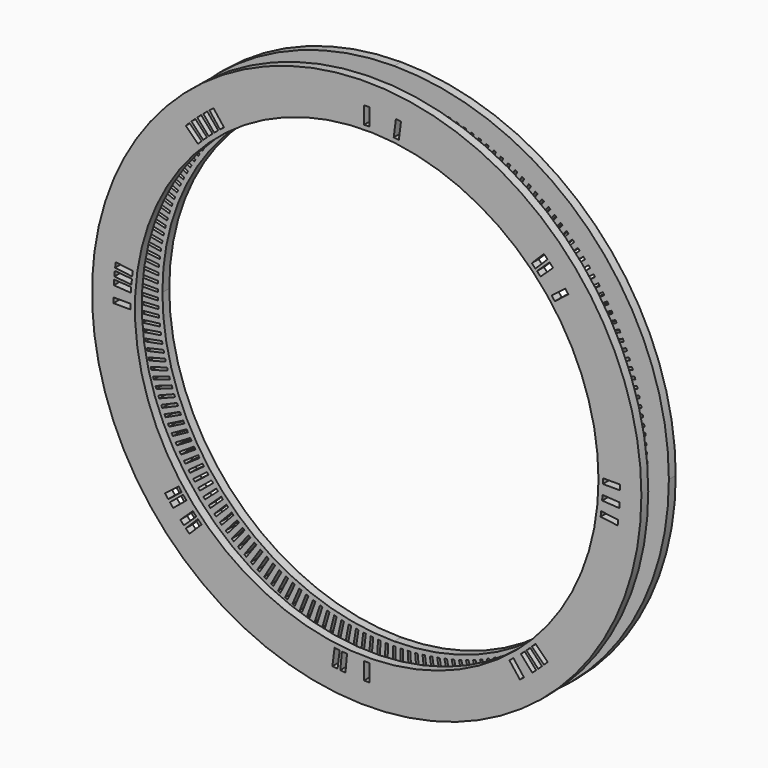
from build123d import *

# Parameters (mm, degrees)
F1_DEPTH = 1
F2_R     = 33.5
F2_R_2   = 26
F2_W     = 2
F2_H     = 0.3
F2_W_2   = 0.3
F2_H_2   = 2
F4_DEPTH = 25
F5_COUNT = 4
F5_ANGLE = 270
F7_R     = 32
F7_W     = 0.6
F7_H     = 2
F7_W_2   = 2
F7_H_2   = 0.6
F7_R_2   = 27
F8_DEPTH = 1


with BuildPart() as f1:
    # F0 (on Front) → F1 (new body)
    with BuildSketch(Plane.XZ):
        with BuildLine():
            Line((27, 0), (32, 0))
            ThreePointArc((32, 0), (22.627416998, 22.627416998), (0, 32))
            Line((0, 32), (0, 27))
            ThreePointArc((0, 27), (19.091883092, 19.091883092), (27, 0))
        make_face()
    extrude(amount=F1_DEPTH)

    # F2 (on Front) → F4 (intersect)
    with BuildSketch(Plane.XZ):
        Circle(F2_R)
        Circle(F2_R_2, mode=Mode.SUBTRACT)
        with Locations((28.5, 0)):
            Rectangle(F2_W, F2_H, mode=Mode.SUBTRACT)
        Polygon((27.4817187962, 1.0137218587), (29.4807319169, 1.0765433769), (29.4901551447, 0.7766914087), (27.4911420239, 0.7138698906), align=None, mode=Mode.SUBTRACT)
        Polygon((27.4363164538, 1.8764432963), (29.4323699107, 2.0020243354), (29.4512070666, 1.7026163169), (27.4551536097, 1.5770352778), align=None, mode=Mode.SUBTRACT)
        Polygon((27.3638377796, 2.7373129109), (29.3549617088, 2.9255295376), (29.3831942028, 2.6268609482), (27.3920702736, 2.4386443216), align=None, mode=Mode.SUBTRACT)
        Polygon((27.2643543011, 3.5954811282), (29.2485837037, 3.8461475953), (29.2861836738, 3.5485131849), (27.3019542712, 3.2978467178), align=None, mode=Mode.SUBTRACT)
        Polygon((27.1379641966, 4.4501010397), (29.1133408778, 4.7629699698), (29.1602712173, 4.4666634676), (27.1848945361, 4.1537945375), align=None, mode=Mode.SUBTRACT)
        Polygon((26.9847921979, 5.3003292387), (28.9493666993, 5.6750918679), (29.0055810937, 5.3804056927), (27.0410065922, 5.0056430635), align=None, mode=Mode.SUBTRACT)
        Polygon((26.8049894671, 6.1453266527), (28.756822991, 6.5816131355), (28.8222659634, 6.2888381069), (26.8704324395, 5.8525516241), align=None, mode=Mode.SUBTRACT)
        Polygon((26.598733448, 6.9842593712), (28.5358997702, 7.4816391455), (28.6105067364, 7.1910641972), (26.6733404141, 6.6936844229), align=None, mode=Mode.SUBTRACT)
        Polygon((26.3662276902, 7.8162994689), (28.2868150616, 8.374281681), (28.3705123934, 8.0861935753), (26.449925022, 7.5282113632), align=None, mode=Mode.SUBTRACT)
        Polygon((24.0261706501, 13.3796720398), (25.7787840102, 14.343179388), (25.9233101124, 14.080287384), (24.1706967523, 13.1167800358), align=None, mode=Mode.SUBTRACT)
        Polygon((23.5940495302, 14.1277502372), (25.3155335843, 15.1458330687), (25.468246009, 14.8876104606), (23.746761955, 13.8695276291), align=None, mode=Mode.SUBTRACT)
        Polygon((23.1386439321, 14.8618860507), (24.8272997831, 15.9335396407), (24.9880478216, 15.6802412631), (23.2993919706, 14.6085876731), align=None, mode=Mode.SUBTRACT)
        Polygon((22.6604032859, 15.5813549771), (24.3145644344, 16.7055217328), (24.4831894478, 16.4573975605), (22.8290282992, 15.3332308048), align=None, mode=Mode.SUBTRACT)
        Polygon((26.107701649, 8.6406258228), (28.0098146816, 9.2586598115), (28.1025197799, 8.9733428566), (26.2004067473, 8.3553088679), align=None, mode=Mode.SUBTRACT)
        Polygon((25.8234104582, 9.4564249221), (27.7051719961, 10.1339007626), (27.8067933722, 9.8516365319), (25.9250318343, 9.1741606914), align=None, mode=Mode.SUBTRACT)
        Polygon((25.1786800227, 11.0592301863), (27.0141892741, 11.8535259676), (27.1333336413, 11.5781995799), (25.2978243899, 10.7839037986), align=None, mode=Mode.SUBTRACT)
        Polygon((25.513634679, 10.2628916717), (27.3731876508, 10.9991407771), (27.4836250166, 10.7202078313), (25.6240720448, 9.9839587259), align=None, mode=Mode.SUBTRACT)
        Polygon((24.8188770491, 11.8446545759), (26.628531154, 12.696213159), (26.7562649415, 12.4247650433), (24.9466108366, 11.5732064602), align=None, mode=Mode.SUBTRACT)
        Polygon((24.4345808402, 12.6183897215), (26.2165938886, 13.5263707209), (26.3527910385, 13.2590687637), (24.5707779901, 12.3510877642), align=None, mode=Mode.SUBTRACT)
        Polygon((13.8695276291, 23.746761955), (14.8876104606, 25.468246009), (15.1458330687, 25.3155335843), (14.1277502372, 23.5940495302), align=None, mode=Mode.SUBTRACT)
        Polygon((13.1167800358, 24.1706967523), (14.080287384, 25.9233101124), (14.343179388, 25.7787840102), (13.3796720398, 24.0261706501), align=None, mode=Mode.SUBTRACT)
        Polygon((14.6085876731, 23.2993919706), (15.6802412631, 24.9880478216), (15.9335396407, 24.8272997831), (14.8618860507, 23.1386439321), align=None, mode=Mode.SUBTRACT)
        Polygon((15.3332308048, 22.8290282992), (16.4573975605, 24.4831894478), (16.7055217328, 24.3145644344), (15.5813549771, 22.6604032859), align=None, mode=Mode.SUBTRACT)
        with Locations((0, 28.5)):
            Rectangle(F2_W_2, F2_H_2, mode=Mode.SUBTRACT)
        Polygon((0.7766914087, 29.4901551447), (1.0765433769, 29.4807319169), (1.0137218587, 27.4817187962), (0.7138698906, 27.4911420239), align=None, mode=Mode.SUBTRACT)
        Polygon((1.5770352778, 27.4551536097), (1.7026163169, 29.4512070666), (2.0020243354, 29.4323699107), (1.8764432963, 27.4363164538), align=None, mode=Mode.SUBTRACT)
        Polygon((2.4386443216, 27.3920702736), (2.6268609482, 29.3831942028), (2.9255295376, 29.3549617088), (2.7373129109, 27.3638377796), align=None, mode=Mode.SUBTRACT)
        Polygon((3.2978467178, 27.3019542712), (3.5485131849, 29.2861836738), (3.8461475953, 29.2485837037), (3.5954811282, 27.2643543011), align=None, mode=Mode.SUBTRACT)
        Polygon((4.1537945375, 27.1848945361), (4.4666634676, 29.1602712173), (4.7629699698, 29.1133408778), (4.4501010397, 27.1379641966), align=None, mode=Mode.SUBTRACT)
        Polygon((5.0056430635, 27.0410065922), (5.3804056927, 29.0055810937), (5.6750918679, 28.9493666993), (5.3003292387, 26.9847921979), align=None, mode=Mode.SUBTRACT)
        Polygon((5.8525516241, 26.8704324395), (6.2888381069, 28.8222659634), (6.5816131355, 28.756822991), (6.1453266527, 26.8049894671), align=None, mode=Mode.SUBTRACT)
        Polygon((6.6936844229, 26.6733404141), (7.1910641972, 28.6105067364), (7.4816391455, 28.5358997702), (6.9842593712, 26.598733448), align=None, mode=Mode.SUBTRACT)
        Polygon((7.5282113632, 26.449925022), (8.0861935753, 28.3705123934), (8.374281681, 28.2868150616), (7.8162994689, 26.3662276902), align=None, mode=Mode.SUBTRACT)
        Polygon((8.3553088679, 26.2004067473), (8.9733428566, 28.1025197799), (9.2586598115, 28.0098146816), (8.6406258228, 26.107701649), align=None, mode=Mode.SUBTRACT)
        Polygon((9.1741606914, 25.9250318343), (9.8516365319, 27.8067933722), (10.1339007626, 27.7051719961), (9.4564249221, 25.8234104582), align=None, mode=Mode.SUBTRACT)
        Polygon((10.7839037986, 25.2978243899), (11.5781995799, 27.1333336413), (11.8535259676, 27.0141892741), (11.0592301863, 25.1786800227), align=None, mode=Mode.SUBTRACT)
        Polygon((11.5732064602, 24.9466108366), (12.4247650433, 26.7562649415), (12.696213159, 26.628531154), (11.8446545759, 24.8188770491), align=None, mode=Mode.SUBTRACT)
        Polygon((9.9839587259, 25.6240720448), (10.7202078313, 27.4836250166), (10.9991407771, 27.3731876508), (10.2628916717, 25.513634679), align=None, mode=Mode.SUBTRACT)
        Polygon((12.3510877642, 24.5707779901), (13.2590687637, 26.3527910385), (13.5263707209, 26.2165938886), (12.6183897215, 24.4345808402), align=None, mode=Mode.SUBTRACT)
        Polygon((19.9439551882, 18.9343907072), (21.401892443, 20.303484919), (21.6072565748, 20.0847943308), (20.14931932, 18.7157001189), align=None, mode=Mode.SUBTRACT)
        Polygon((18.7157001189, 20.14931932), (20.0847943308, 21.6072565748), (20.303484919, 21.401892443), (18.9343907072, 19.9439551882), align=None, mode=Mode.SUBTRACT)
        Polygon((19.3393704655, 19.5515024998), (20.7535840278, 20.9657160622), (20.9657160622, 20.7535840278), (19.5515024998, 19.3393704655), align=None, mode=Mode.SUBTRACT)
        Polygon((21.6373267823, 16.9734672273), (23.217636807, 18.1992813346), (23.4015089231, 17.9622348309), (21.8211988984, 16.7364207236), align=None, mode=Mode.SUBTRACT)
        Polygon((21.0935005779, 17.6447367045), (22.6345270634, 18.919584684), (22.8257542603, 18.6884307112), (21.2847277748, 17.4135827317), align=None, mode=Mode.SUBTRACT)
        Polygon((22.1597995575, 16.2854469872), (23.7778335462, 17.4610174918), (23.9541691219, 17.2183123935), (22.3361351332, 16.0427418889), align=None, mode=Mode.SUBTRACT)
        Polygon((20.528857635, 18.2985929568), (22.0290797743, 19.6212166875), (22.2274733339, 19.3961833666), (20.7272511946, 18.073559636), align=None, mode=Mode.SUBTRACT)
        Polygon((17.4135827317, 21.2847277748), (18.6884307112, 22.8257542603), (18.919584684, 22.6345270634), (17.6447367045, 21.0935005779), align=None, mode=Mode.SUBTRACT)
        Polygon((16.7364207236, 21.8211988984), (17.9622348309, 23.4015089231), (18.1992813346, 23.217636807), (16.9734672273, 21.6373267823), align=None, mode=Mode.SUBTRACT)
        Polygon((18.073559636, 20.7272511946), (19.3961833666, 22.2274733339), (19.6212166875, 22.0290797743), (18.2985929568, 20.528857635), align=None, mode=Mode.SUBTRACT)
        Polygon((16.0427418889, 22.3361351332), (17.2183123935, 23.9541691219), (17.4610174918, 23.7778335462), (16.2854469872, 22.1597995575), align=None, mode=Mode.SUBTRACT)
    extrude(amount=F4_DEPTH, mode=Mode.INTERSECT)

    # F5: F1 ×4 about axis
    f5_axis = Axis((0, 12.2858285904, 0), (0, 1, 0))


with BuildPart() as f1_1:
    add(f1.part)
    for i in range(1, F5_COUNT):
        add(f1.part.rotate(f5_axis, i * F5_ANGLE / (F5_COUNT - 1)))


with BuildPart() as f8:
    # F7 (on offset) → F8 (new body)
    with BuildSketch(Plane.XZ.offset(4)):
        Circle(F7_R)
        Polygon((-20.6475180106, -21.0717820794), (-21.0717820794, -20.6475180106), (-19.657568517, -19.2333044483), (-19.2333044483, -19.657568517), align=None, mode=Mode.SUBTRACT)
        Polygon((-21.2992103772, -20.4128302131), (-21.7099386407, -19.9754490367), (-20.2520013859, -18.6063548248), (-19.8412731223, -19.0437360013), align=None, mode=Mode.SUBTRACT)
        Polygon((-20.4296608552, -18.4111096173), (-21.9298829945, -19.7337333479), (-22.3266701137, -19.2836667062), (-20.8264479744, -17.9610429755), align=None, mode=Mode.SUBTRACT)
        Polygon((-22.538913465, -19.0351616704), (-22.9213678588, -18.5728537248), (-21.3803413733, -17.2980057453), (-20.9978869794, -17.7603136909), align=None, mode=Mode.SUBTRACT)
        Polygon((-21.5453907242, -17.0919904792), (-23.125700749, -18.3178045865), (-23.4934449812, -17.8437115791), (-21.9131349564, -16.6178974717), align=None, mode=Mode.SUBTRACT)
        Polygon((-3.1490295126, -27.3207542562), (-3.3996959798, -29.3049836588), (-3.9949648005, -29.2297837187), (-3.7442983334, -27.2455543161), align=None, mode=Mode.SUBTRACT)
        Polygon((-2.4775266535, -29.3973104498), (-3.0748638323, -29.3408454618), (-2.8866472056, -27.3497215326), (-2.2893100269, -27.4061865206), align=None, mode=Mode.SUBTRACT)
        Polygon((-1.4273312685, -27.4645721876), (-1.5529123076, -29.4606256445), (-2.1517283446, -29.4229513328), (-2.0261473056, -27.4268978759), align=None, mode=Mode.SUBTRACT)
        Polygon((-0.6267654247, -29.4948667585), (-1.2264693609, -29.4760203031), (-1.1636478428, -27.4770071823), (-0.5639439065, -27.4958536378), align=None, mode=Mode.SUBTRACT)
        with Locations((0, -28.5)):
            Rectangle(F7_W, F7_H, mode=Mode.SUBTRACT)
        Polygon((17.0919904792, -21.5453907242), (18.3178045865, -23.125700749), (17.8437115791, -23.4934449812), (16.6178974717, -21.9131349564), align=None, mode=Mode.SUBTRACT)
        Polygon((19.0351616704, -22.538913465), (18.5728537248, -22.9213678588), (17.2980057453, -21.3803413733), (17.7603136909, -20.9978869794), align=None, mode=Mode.SUBTRACT)
        Polygon((18.4111096173, -20.4296608552), (19.7337333479, -21.9298829945), (19.2836667062, -22.3266701137), (17.9610429755, -20.8264479744), align=None, mode=Mode.SUBTRACT)
        Polygon((20.4128302131, -21.2992103772), (19.9754490367, -21.7099386407), (18.6063548248, -20.2520013859), (19.0437360013, -19.8412731223), align=None, mode=Mode.SUBTRACT)
        Polygon((21.0717820794, -20.6475180106), (20.6475180106, -21.0717820794), (19.2333044483, -19.657568517), (19.657568517, -19.2333044483), align=None, mode=Mode.SUBTRACT)
        Polygon((27.3207542562, -3.1490295126), (29.3049836588, -3.3996959798), (29.2297837187, -3.9949648005), (27.2455543161, -3.7442983334), align=None, mode=Mode.SUBTRACT)
        Polygon((29.3973104498, -2.4775266535), (29.3408454618, -3.0748638323), (27.3497215326, -2.8866472056), (27.4061865206, -2.2893100269), align=None, mode=Mode.SUBTRACT)
        Polygon((27.4645721876, -1.4273312685), (29.4606256445, -1.5529123076), (29.4229513328, -2.1517283446), (27.4268978759, -2.0261473056), align=None, mode=Mode.SUBTRACT)
        Polygon((29.4948667585, -0.6267654247), (29.4760203031, -1.2264693609), (27.4770071823, -1.1636478428), (27.4958536378, -0.5639439065), align=None, mode=Mode.SUBTRACT)
        with Locations((-28.5, 0)):
            Rectangle(F7_W_2, F7_H_2, mode=Mode.SUBTRACT)
        Polygon((-29.4948667585, 0.6267654247), (-29.4760203031, 1.2264693609), (-27.4770071823, 1.1636478428), (-27.4958536378, 0.5639439065), align=None, mode=Mode.SUBTRACT)
        Polygon((-27.4645721876, 1.4273312685), (-29.4606256445, 1.5529123076), (-29.4229513328, 2.1517283446), (-27.4268978759, 2.0261473056), align=None, mode=Mode.SUBTRACT)
        Polygon((-29.3973104498, 2.4775266535), (-29.3408454618, 3.0748638323), (-27.3497215326, 2.8866472056), (-27.4061865206, 2.2893100269), align=None, mode=Mode.SUBTRACT)
        Polygon((-27.3207542562, 3.1490295126), (-29.3049836588, 3.3996959798), (-29.2297837187, 3.9949648005), (-27.2455543161, 3.7442983334), align=None, mode=Mode.SUBTRACT)
        Polygon((-21.0717820794, 20.6475180106), (-20.6475180106, 21.0717820794), (-19.2333044483, 19.657568517), (-19.657568517, 19.2333044483), align=None, mode=Mode.SUBTRACT)
        Polygon((-20.4128302131, 21.2992103772), (-19.9754490367, 21.7099386407), (-18.6063548248, 20.2520013859), (-19.0437360013, 19.8412731223), align=None, mode=Mode.SUBTRACT)
        Polygon((-18.4111096173, 20.4296608552), (-19.7337333479, 21.9298829945), (-19.2836667062, 22.3266701137), (-17.9610429755, 20.8264479744), align=None, mode=Mode.SUBTRACT)
        Polygon((-19.0351616704, 22.538913465), (-18.5728537248, 22.9213678588), (-17.2980057453, 21.3803413733), (-17.7603136909, 20.9978869794), align=None, mode=Mode.SUBTRACT)
        Polygon((-17.0919904792, 21.5453907242), (-18.3178045865, 23.125700749), (-17.8437115791, 23.4934449812), (-16.6178974717, 21.9131349564), align=None, mode=Mode.SUBTRACT)
        Circle(F7_R_2, mode=Mode.SUBTRACT)
        with Locations((28.5, 0)):
            Rectangle(F7_W_2, F7_H_2, mode=Mode.SUBTRACT)
        Polygon((0.5639439065, 27.4958536378), (0.6267654247, 29.4948667585), (1.2264693609, 29.4760203031), (1.1636478428, 27.4770071823), align=None, mode=Mode.SUBTRACT)
        with Locations((0, 28.5)):
            Rectangle(F7_W, F7_H, mode=Mode.SUBTRACT)
        Polygon((1.4273312685, 27.4645721876), (1.5529123076, 29.4606256445), (2.1517283446, 29.4229513328), (2.0261473056, 27.4268978759), align=None, mode=Mode.SUBTRACT)
        Polygon((2.2893100269, 27.4061865206), (2.4775266535, 29.3973104498), (3.0748638323, 29.3408454618), (2.8866472056, 27.3497215326), align=None, mode=Mode.SUBTRACT)
        Polygon((3.1490295126, 27.3207542562), (3.3996959798, 29.3049836588), (3.9949648005, 29.2297837187), (3.7442983334, 27.2455543161), align=None, mode=Mode.SUBTRACT)
        Polygon((21.5453907242, 17.0919904792), (23.125700749, 18.3178045865), (23.4934449812, 17.8437115791), (21.9131349564, 16.6178974717), align=None, mode=Mode.SUBTRACT)
        Polygon((22.538913465, 19.0351616704), (22.9213678588, 18.5728537248), (21.3803413733, 17.2980057453), (20.9978869794, 17.7603136909), align=None, mode=Mode.SUBTRACT)
        Polygon((20.4296608552, 18.4111096173), (21.9298829945, 19.7337333479), (22.3266701137, 19.2836667062), (20.8264479744, 17.9610429755), align=None, mode=Mode.SUBTRACT)
        Polygon((21.2992103772, 20.4128302131), (21.7099386407, 19.9754490367), (20.2520013859, 18.6063548248), (19.8412731223, 19.0437360013), align=None, mode=Mode.SUBTRACT)
        Polygon((20.6475180106, 21.0717820794), (21.0717820794, 20.6475180106), (19.657568517, 19.2333044483), (19.2333044483, 19.657568517), align=None, mode=Mode.SUBTRACT)
        Polygon((1.2264693609, 29.4760203031), (0.6267654247, 29.4948667585), (0.5639439065, 27.4958536378), (1.1636478428, 27.4770071823), align=None)
        Polygon((2.1517283446, 29.4229513328), (1.5529123076, 29.4606256445), (1.4273312685, 27.4645721876), (2.0261473056, 27.4268978759), align=None)
        Polygon((3.0748638323, 29.3408454618), (2.4775266535, 29.3973104498), (2.2893100269, 27.4061865206), (2.8866472056, 27.3497215326), align=None)
        Polygon((22.3266701137, 19.2836667062), (21.9298829945, 19.7337333479), (20.4296608552, 18.4111096173), (20.8264479744, 17.9610429755), align=None)
        Polygon((21.3803413733, 17.2980057453), (22.9213678588, 18.5728537248), (22.538913465, 19.0351616704), (20.9978869794, 17.7603136909), align=None)
        Polygon((27.4770071823, -1.1636478428), (29.4760203031, -1.2264693609), (29.4948667585, -0.6267654247), (27.4958536378, -0.5639439065), align=None)
        Polygon((27.3497215326, -2.8866472056), (29.3408454618, -3.0748638323), (29.3973104498, -2.4775266535), (27.4061865206, -2.2893100269), align=None)
        Polygon((-1.1636478428, -27.4770071823), (-1.2264693609, -29.4760203031), (-0.6267654247, -29.4948667585), (-0.5639439065, -27.4958536378), align=None)
        Polygon((-2.1517283446, -29.4229513328), (-1.5529123076, -29.4606256445), (-1.4273312685, -27.4645721876), (-2.0261473056, -27.4268978759), align=None)
        Polygon((17.2980057453, -21.3803413733), (18.5728537248, -22.9213678588), (19.0351616704, -22.538913465), (17.7603136909, -20.9978869794), align=None)
        Polygon((-22.3266701137, -19.2836667062), (-21.9298829945, -19.7337333479), (-20.4296608552, -18.4111096173), (-20.8264479744, -17.9610429755), align=None)
        Polygon((-27.4770071823, 1.1636478428), (-29.4760203031, 1.2264693609), (-29.4948667585, 0.6267654247), (-27.4958536378, 0.5639439065), align=None)
    extrude(amount=F8_DEPTH)


solid = Compound([f1_1.part, f8.part])
